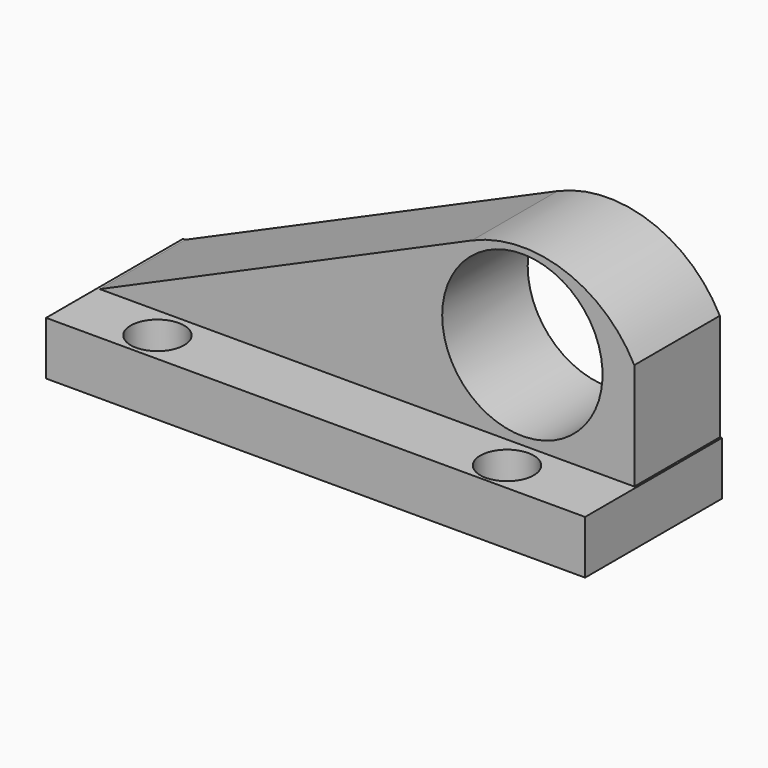
from build123d import *

# Parameters (mm, degrees)
F2_DEPTH = 25.4
F1_W     = 128.0730552971
F1_H     = 12.7
F3_DEPTH = 40.64
F5_D     = 38.1
F7_D     = 12.7
F9_D     = 12.7


with BuildPart() as f2:
    # F0 (on Front) → F2 (new body)
    with BuildSketch(Plane.XZ):
        with BuildLine():
            Line((17.6849197596, 38.9353483915), (-70.7396790385, 0))
            Line((-70.7396790385, 0), (56.2603209615, 0))
            Line((56.2603209615, 0), (56.2603209615, 25.4))
            ThreePointArc((56.2603209615, 25.4), (39.6452990106, 39.7847408738), (17.6849197596, 38.9353483915))
        make_face()
    extrude(amount=F2_DEPTH)

    # F1 (on Front) → F3 (join)
    with BuildSketch(Plane.XZ):
        with Locations((-7.2736348957, -6.35)):
            Rectangle(F1_W, F1_H)
    extrude(amount=F3_DEPTH)

    # F5 (through all)
    with Locations(Plane(origin=(0, 0, 0), x_dir=(1, 0, 0), z_dir=(0, 1, 0))):
        with Locations((29.6650249511, -20.9651887417)):
            Hole(F5_D / 2)

    # F7 (through all)
    with Locations(Plane.XY):
        with Locations((-50.7728345692, -33.230535686)):
            Hole(F7_D / 2)

    # F9 (through all)
    with Locations(Plane.XY):
        with Locations((32.5174368918, -33.5157737136)):
            Hole(F9_D / 2)


solid = f2.part
